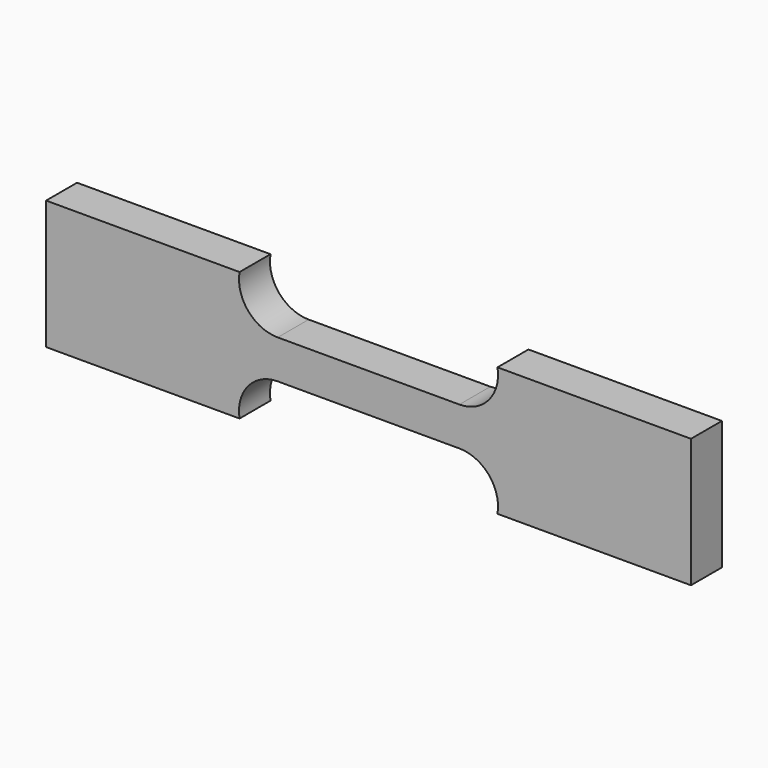
from build123d import *

# Parameters (mm, degrees)
F1_DEPTH = 6


with BuildPart() as f1:
    # F0 (on Front) → F1 (new body)
    with BuildSketch(Plane.XZ):
        with BuildLine():
            Line((14.08392, 3), (0, 3))
            Line((0, 3), (-14.08392, 3))
            ThreePointArc((-14.08392, 3), (-18.666496, 5.127017), (-20, 10))
            Line((-20, 10), (-50, 10))
            Line((-50, 10), (-50, -10))
            Line((-50, -10), (-20, -10))
            ThreePointArc((-20, -10), (-18.666496, -5.127017), (-14.08392, -3))
            Line((-14.08392, -3), (0, -3))
            Line((0, -3), (14.08392, -3))
            ThreePointArc((14.08392, -3), (18.666496, -5.127017), (20, -10))
            Line((20, -10), (50, -10))
            Line((50, -10), (50, 10))
            Line((50, 10), (20, 10))
            ThreePointArc((20, 10), (18.666496, 5.127017), (14.08392, 3))
        make_face()
    extrude(amount=F1_DEPTH)


solid = f1.part
